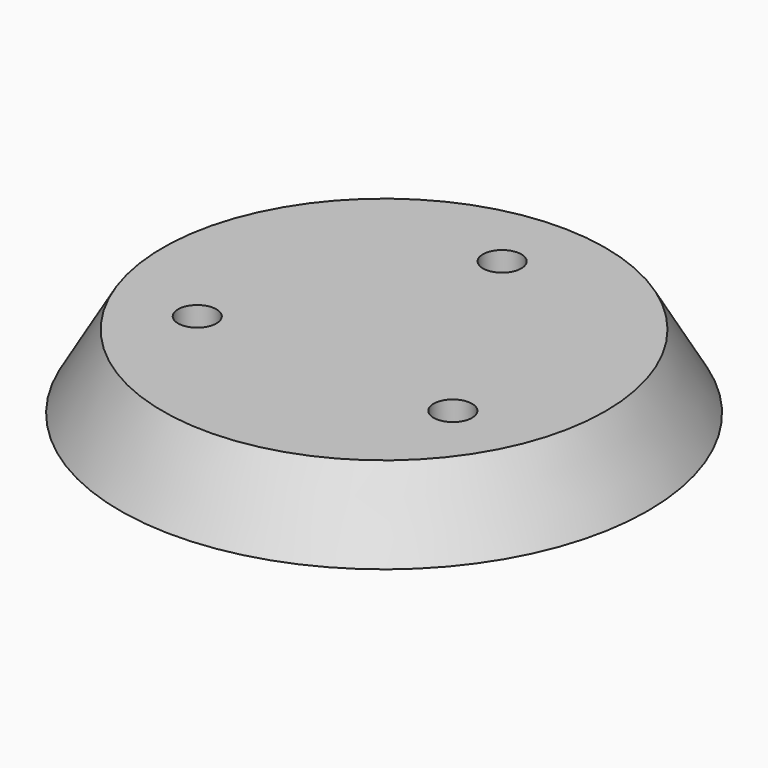
from build123d import *

# Parameters (mm, degrees)
F0_R     = 19.05
F1_DEPTH = 6.35
F1_TAPER = -30
F2_R     = 1.651
F3_DEPTH = 25.4
F5_DEPTH = 3.175


with BuildPart() as f1:
    # F0 (on Top) → F1 (new body)
    with BuildSketch(Plane.XY):
        Circle(F0_R)
    extrude(amount=-F1_DEPTH, taper=F1_TAPER)

    # F2 (on face) → F3 (cut)
    with BuildSketch(Plane.XY):
        with Locations((0, 12.7)):
            Circle(F2_R)
        with Locations((-10.9985226281, -6.35)):
            Circle(F2_R)
        with Locations((10.9985226281, -6.35)):
            Circle(F2_R)
    extrude(amount=-F3_DEPTH, mode=Mode.SUBTRACT)

    # F4 (on face) → F5 (cut)
    with BuildSketch(Plane(origin=(0, 0, -6.35), x_dir=(1, 0, 0), z_dir=(0, 0, -1))):
        Polygon((4.4170216301, -11.6245720608), (1.2771628997, -8.3370330896), (-3.1398587304, -9.4124610289), (-4.4170216301, -13.7754279392), (-1.2771628997, -17.0629669104), (3.1398587304, -15.9875389711), align=None)
        Polygon((9.7213597283, 1.9870330896), (14.1383813584, 3.0624610289), (15.4155442582, 7.4254279392), (12.2756855278, 10.7129669104), (7.8586638977, 9.6375389711), (6.581500998, 5.2745720608), align=None)
        Polygon((-6.581500998, 7.4254279392), (-9.7213597283, 10.7129669104), (-14.1383813584, 9.6375389711), (-15.4155442582, 5.2745720608), (-12.2756855278, 1.9870330896), (-7.8586638977, 3.0624610289), align=None)
    extrude(amount=-F5_DEPTH, mode=Mode.SUBTRACT)


solid = f1.part
